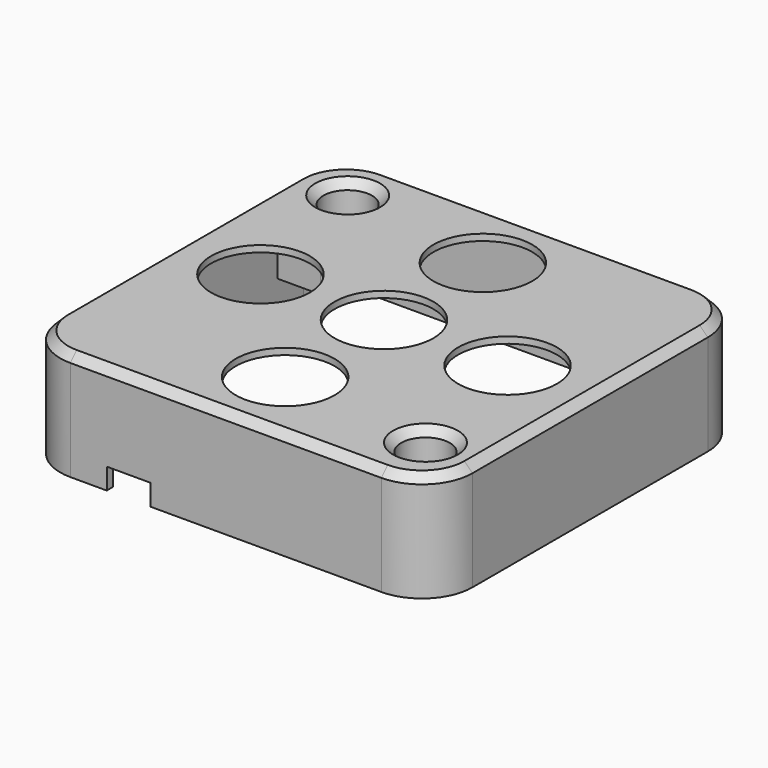
from build123d import *

# Parameters (mm, degrees)
SKETCH_R        = 6.1
PAD_DEPTH       = 0.8
PAD001_DEPTH    = 12.6
CHAMFER_SIZE    = 1
PAD002_DEPTH    = 8.4
SKETCH003_W     = 5.4
SKETCH003_H     = 2.7
POCKET_DEPTH    = 2
CHAMFER001_SIZE = 1


with BuildPart() as part:
    # Sketch → Pad (new body)
    with BuildSketch(Plane.XY):
        with BuildLine():
            Line((-19.195, 24.4), (19.195, 24.4))
            ThreePointArc((25.445, 18.15), (23.614417, 22.569417), (19.195, 24.4))
            Line((25.445, 18.15), (25.445, -18.15))
            ThreePointArc((19.195, -24.4), (23.614417, -22.569417), (25.445, -18.15))
            Line((19.195, -24.4), (-19.195, -24.4))
            ThreePointArc((-25.445, -18.15), (-23.614417, -22.569417), (-19.195, -24.4))
            Line((-25.445, -18.15), (-25.445, 18.15))
            ThreePointArc((-19.195, 24.4), (-23.614417, 22.569417), (-25.445, 18.15))
        make_face()
        with Locations((-15.25, 0)):
            Circle(SKETCH_R, mode=Mode.SUBTRACT)
        Circle(SKETCH_R, mode=Mode.SUBTRACT)
        with Locations((15.25, 0)):
            Circle(SKETCH_R, mode=Mode.SUBTRACT)
        with Locations((0, 15.25)):
            Circle(SKETCH_R, mode=Mode.SUBTRACT)
        with Locations((0, -15.25)):
            Circle(SKETCH_R, mode=Mode.SUBTRACT)
    extrude(amount=PAD_DEPTH)

    # Sketch005 (on Face14 of Pad) → Pad001 (join)
    with BuildSketch(Plane(origin=(0, 0, 0), x_dir=(1, 0, 0), z_dir=(0, 0, -1))):
        with BuildLine():
            Line((-19.195, 24.4), (19.195, 24.4))
            ThreePointArc((25.445, 18.15), (23.614417, 22.569417), (19.195, 24.4))
            Line((25.445, 18.15), (25.445, -18.15))
            ThreePointArc((19.195, -24.4), (23.614417, -22.569417), (25.445, -18.15))
            Line((19.195, -24.4), (-19.195, -24.4))
            ThreePointArc((-25.445, -18.15), (-23.614417, -22.569417), (-19.195, -24.4))
            Line((-25.445, -18.15), (-25.445, 18.15))
            ThreePointArc((-19.195, 24.4), (-23.614417, 22.569417), (-25.445, 18.15))
        make_face()
        with BuildLine():
            Line((-19.195, 23.4), (19.195, 23.4))
            ThreePointArc((24.445, 18.15), (22.907311, 21.862311), (19.195, 23.4))
            Line((24.445, 18.15), (24.445, -18.15))
            ThreePointArc((19.195, -23.4), (22.907311, -21.862311), (24.445, -18.15))
            Line((19.195, -23.4), (-19.195, -23.4))
            ThreePointArc((-24.445, -18.15), (-22.907311, -21.862311), (-19.195, -23.4))
            Line((-24.445, -18.15), (-24.445, 18.15))
            ThreePointArc((-19.195, 23.4), (-22.907311, 21.862311), (-24.445, 18.15))
        make_face(mode=Mode.SUBTRACT)
    extrude(amount=PAD001_DEPTH)

    # Chamfer
    chamfer_edges = [part.edges().sort_by_distance(p)[0] for p in [
        (-22.907311, 21.862311, 0),
        (23.614417, 22.569417, 0.8),
    ]]
    chamfer(chamfer_edges, length=CHAMFER_SIZE)

    # Sketch006 → Pad002 (join)
    with BuildSketch(Plane.XY):
        with BuildLine():
            ThreePointArc((-19.195, 23.4), (-22.907311, 21.862311), (-24.445, 18.15))
            Line((-24.445, 18.15), (-24.445, 14.12))
            Line((-19.14, 14.12), (-24.445, 14.12))
            ThreePointArc((-19.14, 14.12), (-16.311573, 15.291573), (-15.14, 18.12))
            Line((-15.14, 18.12), (-15.14, 23.4))
            Line((-19.195, 23.4), (-15.14, 23.4))
        make_face()
        with BuildLine():
            ThreePointArc((24.445, 18.15), (22.907311, 21.862311), (19.195, 23.4))
            Line((14.96, 23.4), (19.195, 23.4))
            Line((14.96, 18.12), (14.96, 23.4))
            ThreePointArc((14.96, 18.12), (16.131573, 15.291573), (18.96, 14.12))
            Line((18.96, 14.12), (24.445, 14.12))
            Line((24.445, 18.15), (24.445, 14.12))
        make_face()
        with BuildLine():
            ThreePointArc((19.195, -23.4), (22.907311, -21.862311), (24.445, -18.15))
            Line((24.445, -13.5), (24.445, -18.15))
            Line((18.96, -13.5), (24.445, -13.5))
            ThreePointArc((18.96, -13.5), (16.131573, -14.671573), (14.96, -17.5))
            Line((14.96, -17.5), (14.96, -23.4))
            Line((14.96, -23.4), (19.195, -23.4))
        make_face()
        with BuildLine():
            ThreePointArc((-24.445, -18.15), (-22.907311, -21.862311), (-19.195, -23.4))
            Line((-19.195, -23.4), (-15.14, -23.4))
            Line((-15.14, -17.5), (-15.14, -23.4))
            ThreePointArc((-15.14, -17.5), (-16.311573, -14.671573), (-19.14, -13.5))
            Line((-19.14, -13.5), (-24.445, -13.5))
            Line((-24.445, -13.5), (-24.445, -18.15))
        make_face()
    extrude(amount=-PAD002_DEPTH)

    # Sketch004 → Groove (revolve, cut)
    with BuildSketch(Plane(origin=(-18.98, 18.12, 0), x_dir=(1, 0, 0), z_dir=(0, -1, 0))):
        Polygon((3, 2), (0, 2), (0, -11), (1.6, -11), (1.6, -7.3), (3, -5.9), align=None)
    revolve(axis=Axis((-18.98, 18.12, 0), (0, 0, 1)), mode=Mode.SUBTRACT)

    # Sketch007 → Groove001 (revolve, cut)
    with BuildSketch(Plane(origin=(19.12, -17.5, 0), x_dir=(1, 0, 0), z_dir=(0, -1, 0))):
        Polygon((0, -11), (1.6, -11), (1.6, -7.3), (3, -5.9), (3, 2), (0, 2), align=None)
    revolve(axis=Axis((19.12, -17.5, 0), (0, 0, 1)), mode=Mode.SUBTRACT)

    # Sketch003 (on Face16 of Groove001) → Pocket (cut)
    with BuildSketch(Plane.XZ.offset(24.4)):
        with Locations((-12, -11.35)):
            Rectangle(SKETCH003_W, SKETCH003_H)
    extrude(amount=-POCKET_DEPTH, mode=Mode.SUBTRACT)

    # Chamfer001
    chamfer001_edges = [part.edges().sort_by_distance(p)[0] for p in [
        (16.12, -17.5, 0.8),
        (-21.98, 18.12, 0.8),
    ]]
    chamfer(chamfer001_edges, length=CHAMFER001_SIZE)


solid = part.part
